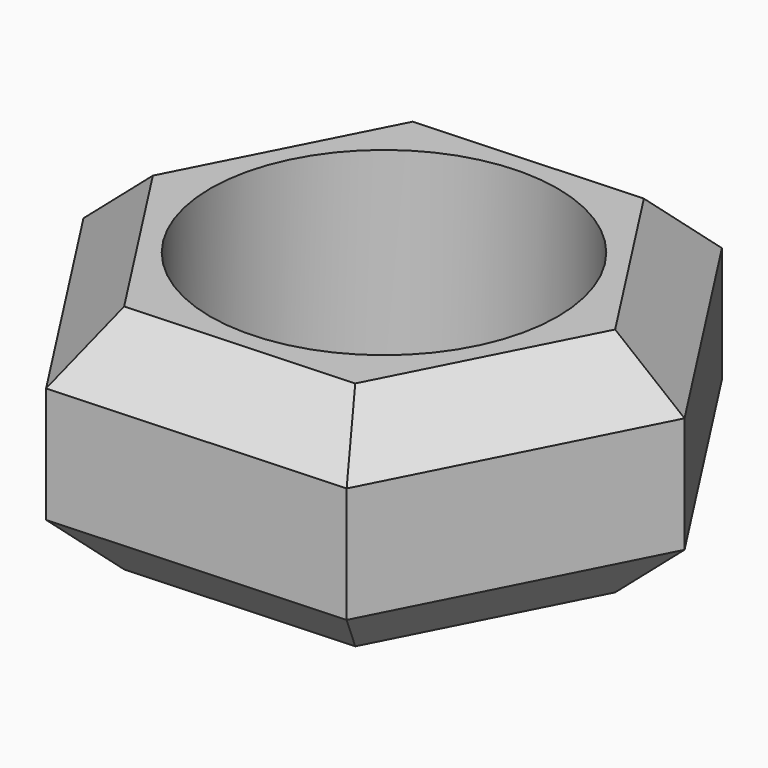
from build123d import *

# Parameters (mm, degrees)
F0_R     = 15
F1_DEPTH = 20
F2_R     = 15
F3_DEPTH = 33.7
F4_SIZE  = 5


with BuildPart() as f1:
    # F0 (on Top) → F1 (new body)
    with BuildSketch(Plane.XY):
        Circle(F0_R)
        Polygon((-11.400712, -22.249129), (13.567955, -20.997871), (24.968667, 1.251258), (11.400712, 22.249129), (-13.567955, 20.997871), (-24.968667, -1.251258), align=None)
        Circle(F0_R, mode=Mode.SUBTRACT)
    extrude(amount=F1_DEPTH)

    # F2 (on face) → F3 (cut)
    with BuildSketch(Plane(origin=(0, 0, 0), x_dir=(1, 0, 0), z_dir=(0, 0, -1))):
        Circle(F2_R)
    extrude(amount=-F3_DEPTH, mode=Mode.SUBTRACT)

    # F4
    f4_edges = [f1.edges().sort_by_distance(p)[0] for p in [
        (1.083621, -21.6235, 20),
        (1.083621, -21.6235, 0),
        (-18.18469, -11.750194, 0),
        (-18.18469, -11.750194, 20),
        (-19.268311, 9.873307, 0),
        (-19.268311, 9.873307, 20),
        (-1.083621, 21.6235, 20),
        (-1.083621, 21.6235, 0),
        (18.18469, 11.750194, 0),
        (18.18469, 11.750194, 20),
        (19.268311, -9.873307, 20),
        (19.268311, -9.873307, 0),
    ]]
    chamfer(f4_edges, length=F4_SIZE)


solid = f1.part
